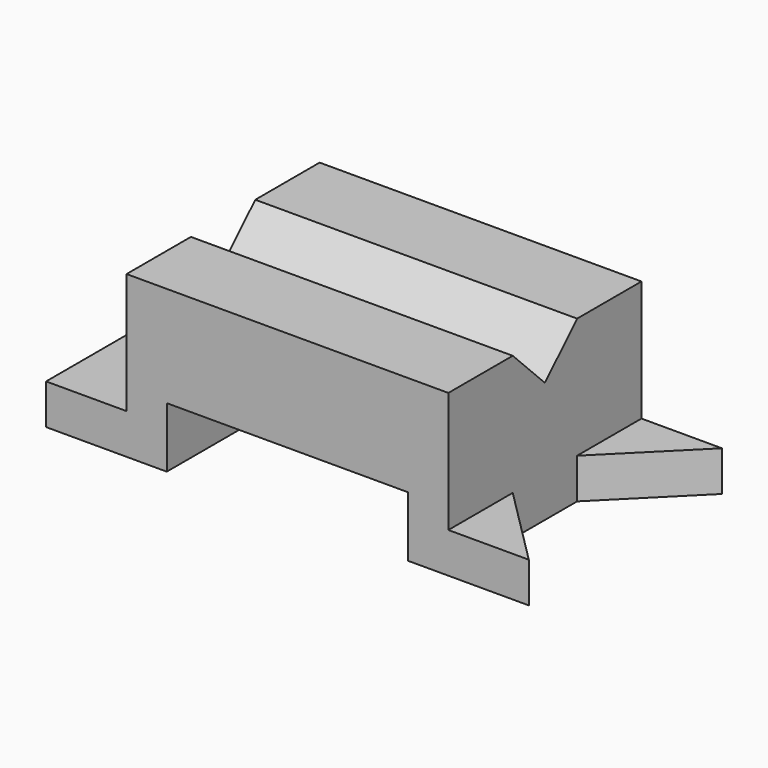
from build123d import *

# Parameters (mm, degrees)
F1_DEPTH = 76.2
F3_DEPTH = 25.4
F5_DEPTH = 101.6


with BuildPart() as f1:
    # F0 (on Front) → F1 (new body)
    with BuildSketch(Plane.XZ):
        Polygon((-75.4051059484, 12.7), (-75.4051059484, 0), (-37.3051059484, 0), (-37.3051059484, 19.05), (38.8948940516, 19.05), (38.8948940516, 0), (76.9948940516, 0), (76.9948940516, 12.7), (51.5948940516, 12.7), (51.5948940516, 50.8), (-50.0051059484, 50.8), (-50.0051059484, 12.7), align=None)
    extrude(amount=F1_DEPTH)

    # F2 (on face) → F3 (cut)
    with BuildSketch(Plane.XY.offset(12.7)):
        Polygon((51.5948940516, -25.4), (51.5948940516, -50.8), (76.9948940516, -76.2), (76.9948940516, 0), align=None)
    extrude(amount=-F3_DEPTH, mode=Mode.SUBTRACT)

    # F4 (on face) → F5 (cut, through all)
    with BuildSketch(Plane.YZ.offset(51.5948940516)):
        Polygon((-25.4, 50.8), (-50.8, 50.8), (-38.1, 38.1), align=None)
    extrude(amount=-F5_DEPTH, mode=Mode.SUBTRACT)


solid = f1.part
